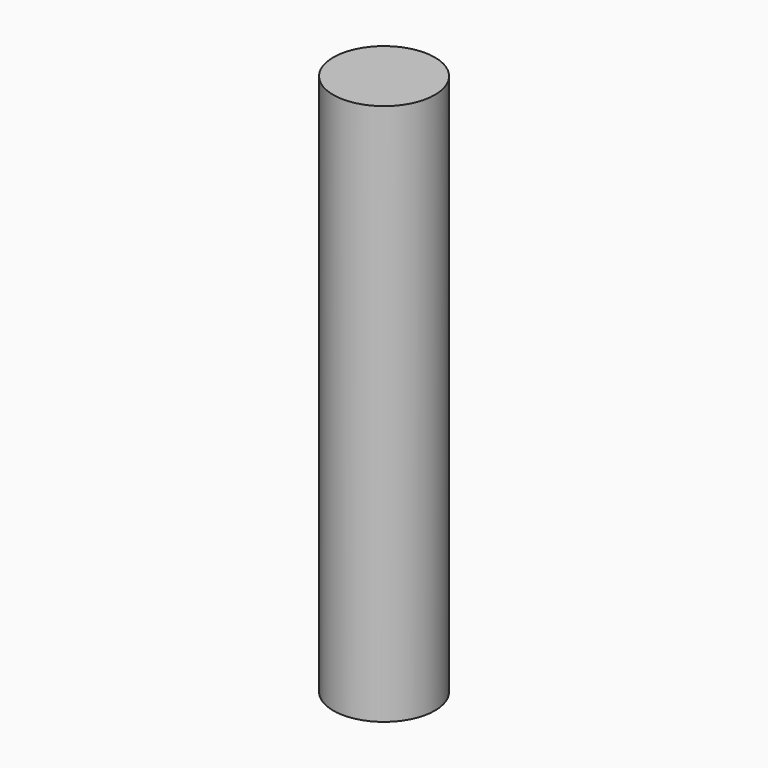
from build123d import *

# Parameters (mm, degrees)
F0_W     = 4.7625
F0_H     = 50.8
F3_D     = 6.35
F3_DEPTH = 46.99
F3_TIP   = 1.9077324654


with BuildPart() as f1:
    # F0 (on Front) → F1 (revolve)
    with BuildSketch(Plane.XZ):
        with Locations((2.38125, 0)):
            Rectangle(F0_W, F0_H)
    revolve(axis=Axis((0, 0, 0), (0, 0, 1)))

    # F3
    with Locations(Plane(origin=(0, 0, -25.4), x_dir=(1, 0, 0), z_dir=(0, 0, -1))):
        with Locations((0, 0)):
            Hole(F3_D / 2, depth=F3_DEPTH)
            with Locations((0, 0, -(F3_DEPTH + F3_TIP / 2))):  # 118° drill point
                Cone(0, F3_D / 2, F3_TIP, mode=Mode.SUBTRACT)


solid = f1.part
